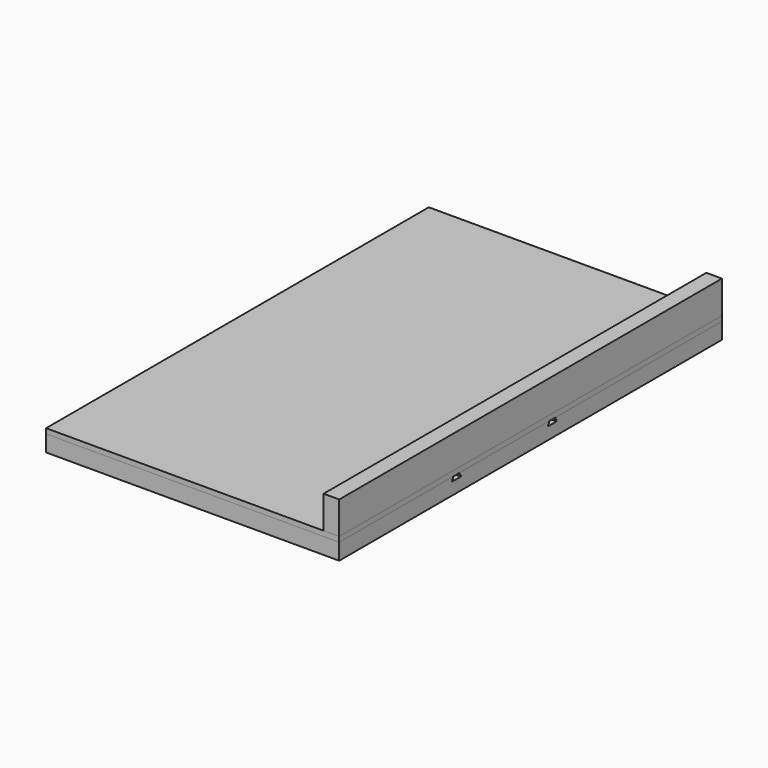
from build123d import *

# Parameters (mm, degrees)
F0_W      = 685.8
F0_H      = 1119.1875
F1_DEPTH  = 38.1
F3_DEPTH  = 685.801
F4_DEPTH  = 685.801
F7_W      = 685.8
F7_H      = 1119.1875
F8_DEPTH  = 11.90625
F9_W      = 36.5125
F9_H      = 1119.1875
F10_DEPTH = 76.2


with BuildPart() as f1:
    # F0 (on Top) → F1 (new body)
    with BuildSketch(Plane.XY):
        Rectangle(F0_W, F0_H)
    extrude(amount=F1_DEPTH)

    # F2 (on face) → F3 (cut, through all)
    with BuildSketch(Plane.YZ.offset(342.9)):
        Polygon((-207.16875, 38.1), (-226.21875, 38.1), (-226.21875, 32.54375), (-229.39375, 32.54375), (-229.39375, 28.575), (-203.99375, 28.575), (-203.99375, 32.54375), (-207.16875, 32.54375), align=None)
    extrude(amount=-F3_DEPTH, mode=Mode.SUBTRACT)

    # F2 (on face) → F4 (cut, through all)
    with BuildSketch(Plane.YZ.offset(342.9)):
        Polygon((73.025, 38.1), (53.975, 38.1), (53.975, 32.54375), (50.8, 32.54375), (50.8, 28.575), (76.2, 28.575), (76.2, 32.54375), (73.025, 32.54375), align=None)
    extrude(amount=-F4_DEPTH, mode=Mode.SUBTRACT)


with BuildPart() as f8:
    # F7 (on face) → F8 (new body)
    with BuildSketch(Plane.XY.offset(38.1)):
        Rectangle(F7_W, F7_H)
    extrude(amount=F8_DEPTH)


with BuildPart() as f10:
    # F9 (on face) → F10 (new body)
    with BuildSketch(Plane.XY.offset(50.00625)):
        with Locations((324.64375, 0)):
            Rectangle(F9_W, F9_H)
    extrude(amount=F10_DEPTH)


solid = Compound([f1.part, f8.part, f10.part])
